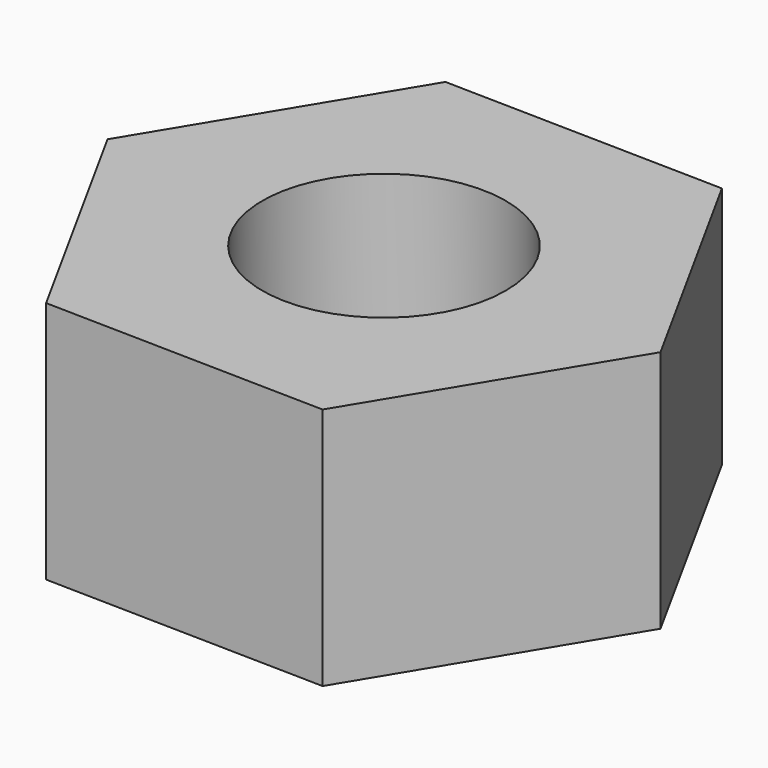
from build123d import *

# Parameters (mm, degrees)
F1_DEPTH = 12.7
F2_R     = 6.35
F3_DEPTH = 12.701


with BuildPart() as f1:
    # F0 (on Top) → F1 (new body)
    with BuildSketch(Plane.XY):
        Polygon((14.661655, -0.298668), (7.589482, 12.548032), (-7.072174, 12.8467), (-14.661655, 0.298668), (-7.589482, -12.548032), (7.072174, -12.8467), align=None)
    extrude(amount=F1_DEPTH)

    # F2 (on face) → F3 (cut, through all)
    with BuildSketch(Plane.XY.offset(12.7)):
        Circle(F2_R)
    extrude(amount=-F3_DEPTH, mode=Mode.SUBTRACT)


solid = f1.part
